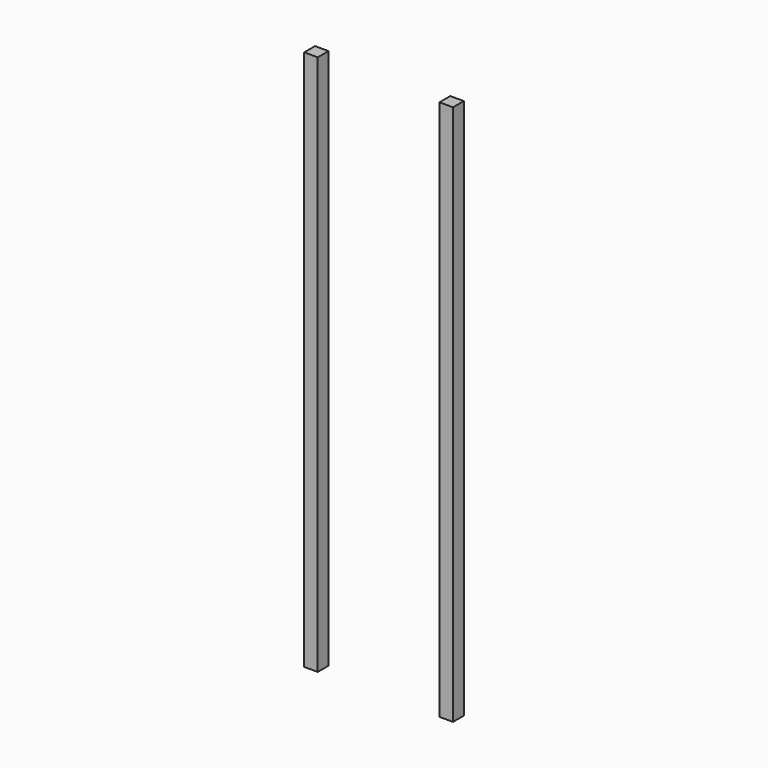
from build123d import *

# Parameters (mm, degrees)
F0_W     = 100
F0_H     = 4000
F1_DEPTH = 100


with BuildPart() as f1:
    # F0 (on Front) → F1 (new body)
    with BuildSketch(Plane.XZ):
        with Locations((3.049452, 1989.881518)):
            Rectangle(F0_W, F0_H)
    extrude(amount=F1_DEPTH)


with BuildPart() as f2_1:
    # F2: copy of F1
    add(f1.part.moved(Location((1000, 0, 0))))


solid = Compound([f1.part, f2_1.part])
